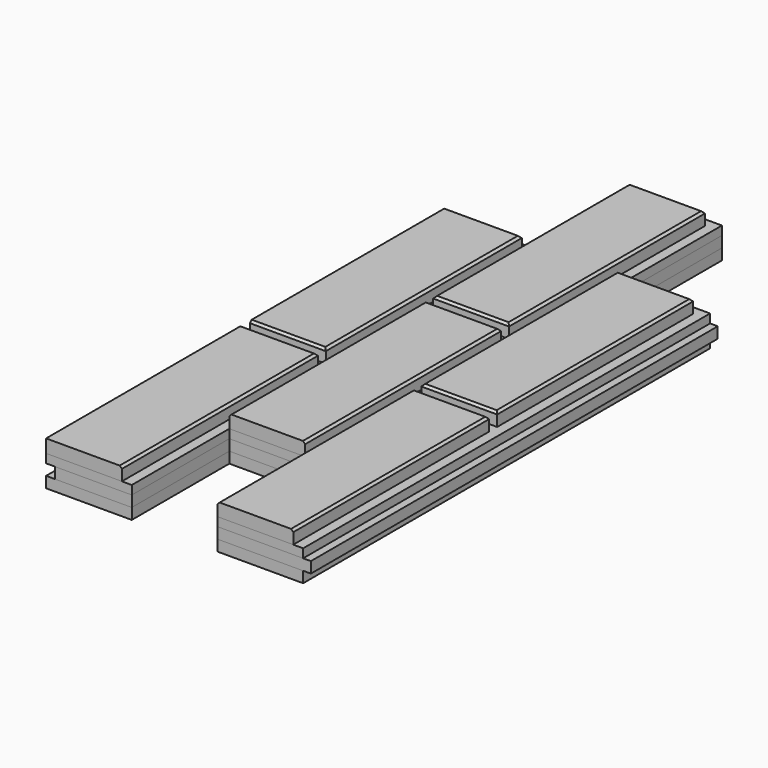
from build123d import *

# Parameters (mm, degrees)
F0_W          = 234
F0_H          = 10
F1_DEPTH      = 287.5
F1_DEPTH_BACK = 287.5
F2_W          = 233
F2_H          = 10
F3_DEPTH      = 575
F4_W          = 234
F4_H          = 8
F5_DEPTH      = 575
F6_W          = 78
F6_H          = 111
F6_W_2        = 85
F7_DEPTH      = 28.001
F8_W          = 69
F8_H          = 223
F9_DEPTH      = 12
F10_SIZE      = 2
F11_SIZE      = 2
F12_W         = 78
F12_H         = 1
F12_W_2       = 85
F13_DEPTH     = 40.001


with BuildPart() as f1:
    # F0 (on Front) → F1 (new body, two sides)
    with BuildSketch(Plane.XZ) as f1_sk:
        with Locations((0, 5)):
            Rectangle(F0_W, F0_H)
    extrude(amount=F1_DEPTH)
    extrude(f1_sk.sketch, amount=-F1_DEPTH_BACK)


with BuildPart() as f3:
    # F2 (on face) → F3 (new body, through all)
    with BuildSketch(Plane.XZ.offset(287.5)):
        with Locations((7.5, 15)):
            Rectangle(F2_W, F2_H)
    extrude(amount=-F3_DEPTH)


with BuildPart() as f5:
    # F4 (on face) → F5 (new body, through all)
    with BuildSketch(Plane.XZ.offset(287.5)):
        with Locations((0, 24)):
            Rectangle(F4_W, F4_H)
    extrude(amount=-F5_DEPTH)


with BuildPart() as f7_tool:
    # F6 (on face) → F7 (new body, through all)
    with BuildSketch(Plane.XY.offset(28)):
        with Locations((0, -232)):
            Rectangle(F6_W, F6_H)
        with Locations((-78, 232)):
            Rectangle(F6_W, F6_H)
        with Locations((81.5, 232)):
            Rectangle(F6_W_2, F6_H)
    extrude(amount=-F7_DEPTH)


with BuildPart() as f1_1:
    add(f1.part)

    # F7: cut by f7_tool
    add(f7_tool.part, mode=Mode.SUBTRACT)


with BuildPart() as f3_1:
    add(f3.part)

    # F7: cut by f7_tool
    add(f7_tool.part, mode=Mode.SUBTRACT)


with BuildPart() as f5_1:
    add(f5.part)

    # F7: cut by f7_tool
    add(f7_tool.part, mode=Mode.SUBTRACT)


with BuildPart() as f9:
    # F8 (on face) → F9 (new body)
    with BuildSketch(Plane.XY.offset(28)):
        with Locations((-82.5, -176)):
            Rectangle(F8_W, F8_H)
        with Locations((-82.5, 56)):
            Rectangle(F8_W, F8_H)
        with Locations((73.5, -176)):
            Rectangle(F8_W, F8_H)
        with Locations((73.5, 56)):
            Rectangle(F8_W, F8_H)
        with Locations((-4.5, -65)):
            Rectangle(F8_W, F8_H)
        with Locations((-4.5, 167)):
            Rectangle(F8_W, F8_H)
    extrude(amount=F9_DEPTH)

    # F10
    f10_edges = [f9.edges().sort_by_distance(p)[0] for p in [
        (-4.5, 278.5, 40),
        (30, 167, 40),
        (-48, 56, 40),
        (-82.5, 167.5, 40),
        (-82.5, -55.5, 40),
        (-82.5, -64.5, 40),
        (-48, -176, 40),
        (-4.5, 55.5, 40),
        (-4.5, 46.5, 40),
        (-39, -65, 40),
        (30, -65, 40),
        (39, 56, 40),
        (73.5, -55.5, 40),
        (108, 56, 40),
        (73.5, 167.5, 40),
        (73.5, -64.5, 40),
        (108, -176, 40),
    ]]
    chamfer(f10_edges, length=F10_SIZE)

    # F11
    f11_edges = [f9.edges().sort_by_distance(p)[0] for p in [
        (-39, 167, 40),
        (39, -177, 40),
    ]]
    chamfer(f11_edges, length=F11_SIZE)


with BuildPart() as f13_tool:
    # F12 (on face) → F13 (new body, through all)
    with BuildSketch(Plane(origin=(0, 0, 0), x_dir=(1, 0, 0), z_dir=(0, 0, -1))):
        with Locations((-78, -176)):
            Rectangle(F12_W, F12_H)
        with Locations((0, -287)):
            Rectangle(F12_W, F12_H)
        with Locations((81.5, -176)):
            Rectangle(F12_W_2, F12_H)
    extrude(amount=-F13_DEPTH)


with BuildPart() as f1_2:
    add(f1_1.part)

    # F13: cut by f13_tool
    add(f13_tool.part, mode=Mode.SUBTRACT)


with BuildPart() as f3_2:
    add(f3_1.part)

    # F13: cut by f13_tool
    add(f13_tool.part, mode=Mode.SUBTRACT)


with BuildPart() as f5_2:
    add(f5_1.part)

    # F13: cut by f13_tool
    add(f13_tool.part, mode=Mode.SUBTRACT)


solid = Compound([f9.part, f1_2.part, f3_2.part, f5_2.part])
